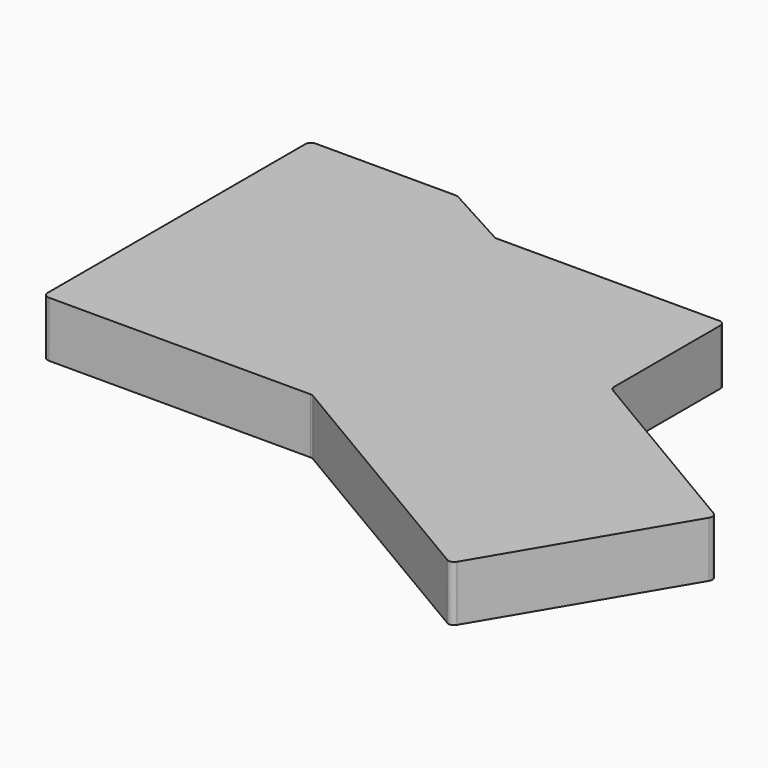
from build123d import *

# Parameters (mm, degrees)
F1_DEPTH = 19.05


with BuildPart() as f1:
    # F0 (on Top) → F1 (new body)
    with BuildSketch(Plane.XY):
        with BuildLine():
            ThreePointArc((-100.25353, 101.826), (-101.667744, 101.240213), (-102.25353, 99.826))
            Line((-102.25353, 99.826), (-102.25353, -10.474))
            ThreePointArc((-102.25353, -10.474), (-101.667744, -11.888214), (-100.25353, -12.474))
            Line((-100.25353, -12.474), (-10.564581, -12.474))
            ThreePointArc((-10.564581, -12.474), (-10.036438, -12.544994), (-9.545789, -12.752936))
            Line((-9.545789, -12.752936), (77.88431, -64.507527))
            ThreePointArc((77.88431, -64.507527), (79.399684, -64.723833), (80.624166, -63.805253))
            Line((80.624166, -63.805253), (117.402527, -1.674808))
            ThreePointArc((117.402527, -1.674808), (117.618833, -0.159434), (116.700253, 1.065048))
            Line((116.700253, 1.065048), (51.127679, 39.880991))
            ThreePointArc((51.127679, 39.880991), (50.409003, 40.611496), (50.14647, 41.602056))
            Line((50.14647, 41.602056), (50.14647, 87.126))
            ThreePointArc((50.14647, 87.126), (49.560684, 88.540213), (48.14647, 89.126))
            Line((48.14647, 89.126), (-28.05353, 89.126))
            ThreePointArc((-28.05353, 89.126), (-28.549656, 89.188512), (-29.014768, 89.37214))
            Line((-29.014768, 89.37214), (-51.28878, 101.579859))
            ThreePointArc((-51.28878, 101.579859), (-51.753892, 101.763487), (-52.250017, 101.826))
            Line((-52.250017, 101.826), (-100.25353, 101.826))
        make_face()
    extrude(amount=F1_DEPTH)


solid = f1.part
